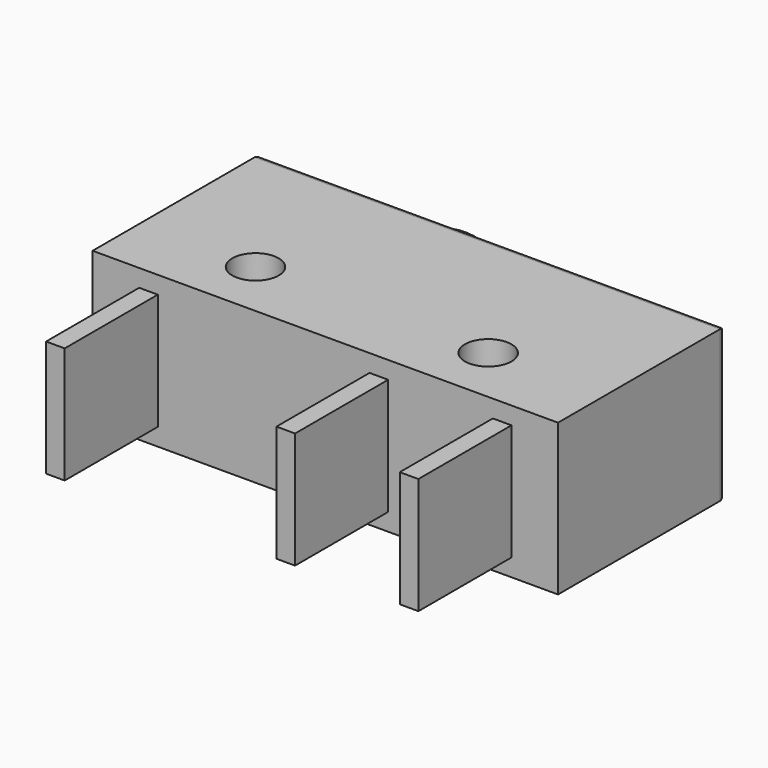
from build123d import *

# Parameters (mm, degrees)
SKETCH_W     = 20
SKETCH_H     = 9
SKETCH_R     = 1
PAD_DEPTH    = 3.25
SKETCH001_W  = 0.8
SKETCH001_H  = 5
PAD001_DEPTH = 2.5
FILLET_R     = 0.5
FILLET001_R  = 0.3


with BuildPart() as part:
    # Sketch → Pad (new body, symmetric)
    with BuildSketch(Plane.XY):
        with Locations((0, 4.5)):
            Rectangle(SKETCH_W, SKETCH_H)
        with Locations((-5, 2.5)):
            Circle(SKETCH_R, mode=Mode.SUBTRACT)
        with Locations((5, 2.5)):
            Circle(SKETCH_R, mode=Mode.SUBTRACT)
    extrude(amount=PAD_DEPTH, both=True)

    # Sketch001 → Pad001 (join, symmetric)
    with BuildSketch(Plane.XY):
        with Locations((-7.6, -2.5)):
            Rectangle(SKETCH001_W, SKETCH001_H)
        with Locations((7.6, -2.5)):
            Rectangle(SKETCH001_W, SKETCH001_H)
        with Locations((2.3, -2.5)):
            Rectangle(SKETCH001_W, SKETCH001_H)
    extrude(amount=PAD001_DEPTH, both=True)

    # Sketch002 → Revolution (revolve)
    with BuildSketch(Plane.XY):
        Polygon((-2, 9), (-4.5, 9), (-4.5, 10), (-3.5, 10), (-3.5, 11), (-2, 11), align=None)
    revolve(axis=Axis((-2, 0, 0), (0, -1, 0)))

    # Fillet
    fillet_edges = [part.edges().sort_by_distance(p)[0] for p in [
        (-0.5, 11, 0),
    ]]
    fillet(fillet_edges, radius=FILLET_R)

    # Fillet001
    fillet001_edges = [part.edges().sort_by_distance(p)[0] for p in [
        (10, 9, 0),
        (0, 9, -3.25),
        (0, 9, 3.25),
        (-10, 9, 0),
        (0.5, 9, 0),
    ]]
    fillet(fillet001_edges, radius=FILLET001_R)


solid = part.part
